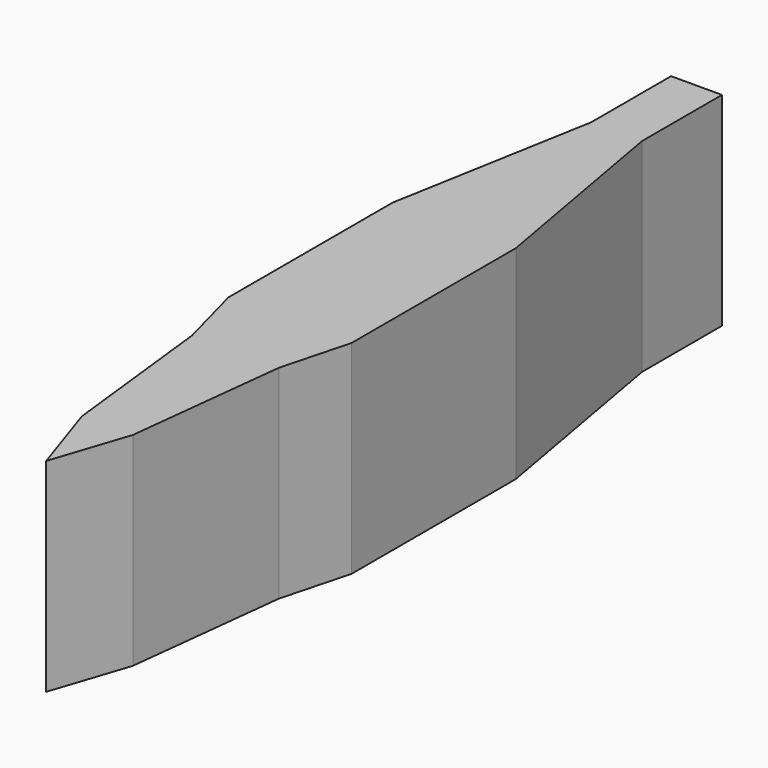
from build123d import *

# Parameters (mm, degrees)
F0_W     = 127
F0_H     = 203.2
F1_DEPTH = 101.6
F3_DEPTH = 50.8
F4_DEPTH = 127.001


with BuildPart() as f1:
    # F0 (on Top) → F1 (new body)
    with BuildSketch(Plane.XY):
        Rectangle(F0_W, F0_H)
    extrude(amount=F1_DEPTH)

    # F2 (on face) → F3 (cut)
    with BuildSketch(Plane.XY.offset(101.6)):
        Polygon((-6.35, -82.4402868748), (-10.8761594549, -42.4315269709), (-15.4023189098, -25.4), (-15.4023189098, 25.8809477091), (-6.35, 76.6328498721), (-6.35, 101.6), (-63.5, 101.6), (-63.5, -101.6), (0, -101.6), align=None)
        Polygon((15.4023189098, -25.4), (10.8761594549, -42.4315269709), (6.35, -82.4402868748), (0, -101.6), (63.5, -101.6), (63.5, 101.6), (6.35, 101.6), (6.35, 76.6328498721), (15.4023189098, 25.8809477091), align=None)
    extrude(amount=-F3_DEPTH, mode=Mode.SUBTRACT)

    # F4 (cut, through all): a face of the model
    f4_faces = [f1.faces().sort_by_distance(p)[0] for p in [
        (63.5, 0, 25.4),
    ]]
    extrude(f4_faces, amount=-F4_DEPTH, mode=Mode.SUBTRACT)


solid = f1.part
